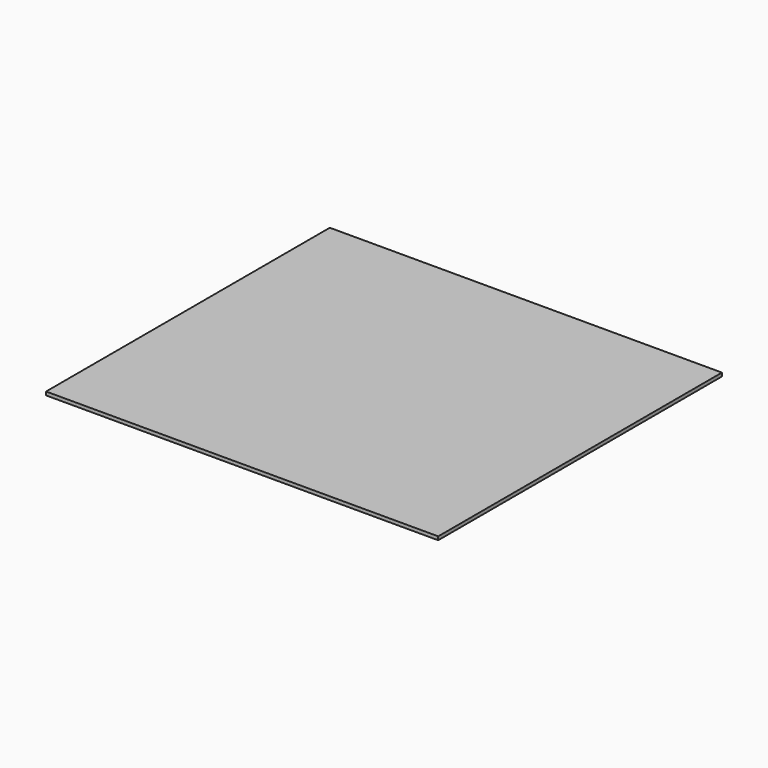
from build123d import *

# Parameters (mm, degrees)
F1_W     = 680
F1_H     = 615
F2_DEPTH = 6
F3_DEPTH = 6


with BuildPart() as f2:
    # F1 (on Top) → F2 (new body)
    with BuildSketch(Plane.XY):
        Rectangle(F1_W, F1_H)
    extrude(amount=F2_DEPTH)

    # F0 (on Top) → F3 (join)
    with BuildSketch(Plane.XY):
        Polygon((30.2, -307.5), (340, -307.5), (340, 29.3), (320.8, 29.3), (320.8, 47.3), (299.6, 47.3), (299.6, 48.3), (281.6, 48.3), (281.6, 66.7), (299.6, 66.7), (299.6, 67.7), (320.8, 67.7), (320.8, 85.7), (340, 85.7), (340, 307.5), (30.2, 307.5), (30.2, 291.1), (-30.2, 291.1), (-30.2, 307.5), (-340, 307.5), (-340, 85.7), (-320.8, 85.7), (-320.8, 67.7), (-299.6, 67.7), (-299.6, 66.7), (-281.6, 66.7), (-281.6, 48.3), (-299.6, 48.3), (-299.6, 47.3), (-320.8, 47.3), (-320.8, 29.3), (-340, 29.3), (-340, -307.5), (-30.2, -307.5), (-30.2, -287.1), (30.2, -287.1), align=None)
    extrude(amount=F3_DEPTH)


solid = f2.part
